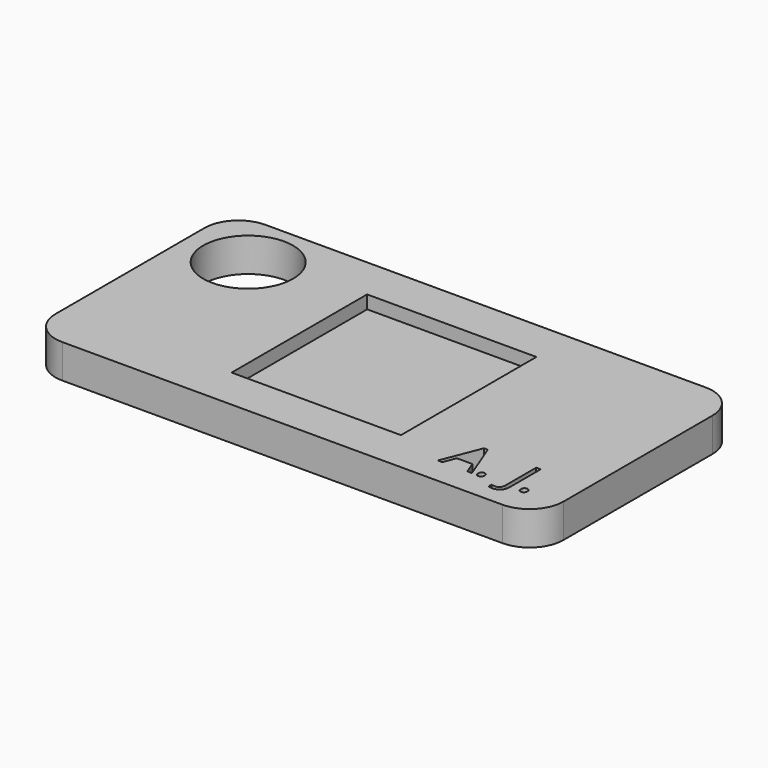
from build123d import *

# Parameters (mm, degrees)
F0_W      = 76.2
F0_H      = 38.1
F0_R      = 6.7437751626
F0_W_2    = 25.4
F0_H_2    = 25.4
F1_DEPTH  = 5.08
F2_W      = 23.8145831972
F2_H      = 23.7880713142
F3_DEPTH  = 6.35
F5_W      = 25.2180509269
F5_H      = 25.2180509269
F6_DEPTH  = 3.175
F7_R      = 5.2620849858
F8_DEPTH  = 1.27
F9_R      = 5.207
F10_DEPTH = 1.27
F11_R     = 5.08


with BuildPart() as f1:
    # F0 (on Top) → F1 (new body)
    with BuildSketch(Plane.XY):
        Rectangle(F0_W, F0_H)
        with BuildLine():
            add(Edge.make_bspline(
                [(25.9483247947, -15.0171730814), (25.816066651, -14.8925087067), (25.816066651, -14.6077423686)],
                knots=[0, 0, 0, 1, 1, 1], degree=2))
            add(Edge.make_bspline(
                [(25.816066651, -14.6077423686), (25.816066651, -14.3419604529), (25.9369341412, -14.2059054247)],
                knots=[0, 0, 0, 1, 1, 1], degree=2))
            add(Edge.make_bspline(
                [(25.9369341412, -14.2059054247), (26.0578016314, -14.0698503965), (26.2830834456, -14.0698503965)],
                knots=[0, 0, 0, 1, 1, 1], degree=2))
            add(Edge.make_bspline(
                [(26.2830834456, -14.0698503965), (26.5121621443, -14.0698503965), (26.6406234035, -14.2059054247)],
                knots=[0, 0, 0, 1, 1, 1], degree=2))
            add(Edge.make_bspline(
                [(26.6406234035, -14.2059054247), (26.7690846627, -14.3419604529), (26.7690846627, -14.6077423686)],
                knots=[0, 0, 0, 1, 1, 1], degree=2))
            add(Edge.make_bspline(
                [(26.7690846627, -14.6077423686), (26.7690846627, -14.864664887), (26.6387249612, -15.0032511715)],
                knots=[0, 0, 0, 1, 1, 1], degree=2))
            add(Edge.make_bspline(
                [(26.6387249612, -15.0032511715), (26.5083652598, -15.1418374561), (26.2830834456, -15.1418374561)],
                knots=[0, 0, 0, 1, 1, 1], degree=2))
            add(Edge.make_bspline(
                [(26.2830834456, -15.1418374561), (26.0805829384, -15.1418374561), (25.9483247947, -15.0171730814)],
                knots=[0, 0, 0, 1, 1, 1], degree=2))
        make_face(mode=Mode.SUBTRACT)
        with BuildLine():
            add(Edge.make_bspline(
                [(32.3713877553, -15.0171730814), (32.2391296116, -14.8925087067), (32.2391296116, -14.6077423686)],
                knots=[0, 0, 0, 1, 1, 1], degree=2))
            add(Edge.make_bspline(
                [(32.2391296116, -14.6077423686), (32.2391296116, -14.3419604529), (32.3599971018, -14.2059054247)],
                knots=[0, 0, 0, 1, 1, 1], degree=2))
            add(Edge.make_bspline(
                [(32.3599971018, -14.2059054247), (32.480864592, -14.0698503965), (32.7061464062, -14.0698503965)],
                knots=[0, 0, 0, 1, 1, 1], degree=2))
            add(Edge.make_bspline(
                [(32.7061464062, -14.0698503965), (32.9352251049, -14.0698503965), (33.0636863641, -14.2059054247)],
                knots=[0, 0, 0, 1, 1, 1], degree=2))
            add(Edge.make_bspline(
                [(33.0636863641, -14.2059054247), (33.1921476233, -14.3419604529), (33.1921476233, -14.6077423686)],
                knots=[0, 0, 0, 1, 1, 1], degree=2))
            add(Edge.make_bspline(
                [(33.1921476233, -14.6077423686), (33.1921476233, -14.864664887), (33.0617879218, -15.0032511715)],
                knots=[0, 0, 0, 1, 1, 1], degree=2))
            add(Edge.make_bspline(
                [(33.0617879218, -15.0032511715), (32.9314282204, -15.1418374561), (32.7061464062, -15.1418374561)],
                knots=[0, 0, 0, 1, 1, 1], degree=2))
            add(Edge.make_bspline(
                [(32.7061464062, -15.1418374561), (32.503645899, -15.1418374561), (32.3713877553, -15.0171730814)],
                knots=[0, 0, 0, 1, 1, 1], degree=2))
        make_face(mode=Mode.SUBTRACT)
        Polygon((25.2148932705, -15.0266652927), (24.5187977772, -15.0266652927), (23.7986553487, -13.1877075623), (21.4812901702, -13.1877075623), (20.7700071389, -15.0266652927), (20.0890991837, -15.0266652927), (22.3748236579, -9.2199632507), (22.9405594497, -9.2199632507), align=None, mode=Mode.SUBTRACT)
        with BuildLine():
            add(Edge.make_bspline(
                [(30.5191409291, -16.1359883833), (30.1394524783, -16.5492159807), (29.4269038188, -16.5492159807)],
                knots=[0, 0, 0, 1, 1, 1], degree=2))
            add(Edge.make_bspline(
                [(29.4269038188, -16.5492159807), (29.0560747651, -16.5492159807), (28.8421836045, -16.4429032144)],
                knots=[0, 0, 0, 1, 1, 1], degree=2))
            Line((28.8421836045, -16.4429032144), (28.8421836045, -15.8695736536))
            add(Edge.make_bspline(
                [(28.8421836045, -15.8695736536), (29.1231530581, -15.9480426001), (29.4269038188, -15.9480426001)],
                knots=[0, 0, 0, 1, 1, 1], degree=2))
            add(Edge.make_bspline(
                [(29.4269038188, -15.9480426001), (29.8192485514, -15.9480426001), (30.0230146867, -15.7107373183)],
                knots=[0, 0, 0, 1, 1, 1], degree=2))
            add(Edge.make_bspline(
                [(30.0230146867, -15.7107373183), (30.226780822, -15.4734320365), (30.226780822, -15.0266652927)],
                knots=[0, 0, 0, 1, 1, 1], degree=2))
            Line((30.226780822, -15.0266652927), (30.226780822, -9.2440101859))
            Line((30.226780822, -9.2440101859), (30.89882938, -9.2440101859))
            Line((30.89882938, -9.2440101859), (30.89882938, -14.9709776532))
            add(Edge.make_bspline(
                [(30.89882938, -14.9709776532), (30.89882938, -15.7227607859), (30.5191409291, -16.1359883833)],
                knots=[0, 0, 0, 1, 1, 1], degree=2))
        make_face(mode=Mode.SUBTRACT)
        with Locations((-28.6917921776, 10.3906594306)):
            Circle(F0_R, mode=Mode.SUBTRACT)
        Rectangle(F0_W_2, F0_H_2, mode=Mode.SUBTRACT)
    extrude(amount=F1_DEPTH)

    # F7 (on Top) → F8 (join)
    with BuildSketch(Plane.XY):
        with Locations((27.7398545295, 11.9212605059)):
            Circle(F7_R)
    extrude(amount=-F8_DEPTH)

    # F9 (on Top) → F10 (join)
    with BuildSketch(Plane.XY):
        with Locations((-28.6568775773, -9.399455972)):
            Circle(F9_R)
    extrude(amount=-F10_DEPTH)

    # F11
    f11_edges = [f1.edges().sort_by_distance(p)[0] for p in [
        (38.1, 19.05, 2.54),
        (38.1, -19.05, 2.54),
        (-38.1, -19.05, 2.54),
        (-38.1, 19.05, 2.54),
    ]]
    fillet(f11_edges, radius=F11_R)


with BuildPart() as f3:
    # F2 (on Top) → F3 (new body)
    with BuildSketch(Plane.XY):
        Rectangle(F2_W, F2_H)
    extrude(amount=F3_DEPTH)


with BuildPart() as f6:
    # F5 (on Top) → F6 (new body)
    with BuildSketch(Plane.XY):
        Rectangle(F5_W, F5_H)
    extrude(amount=F6_DEPTH)


solid = Compound([f1.part, f6.part])
